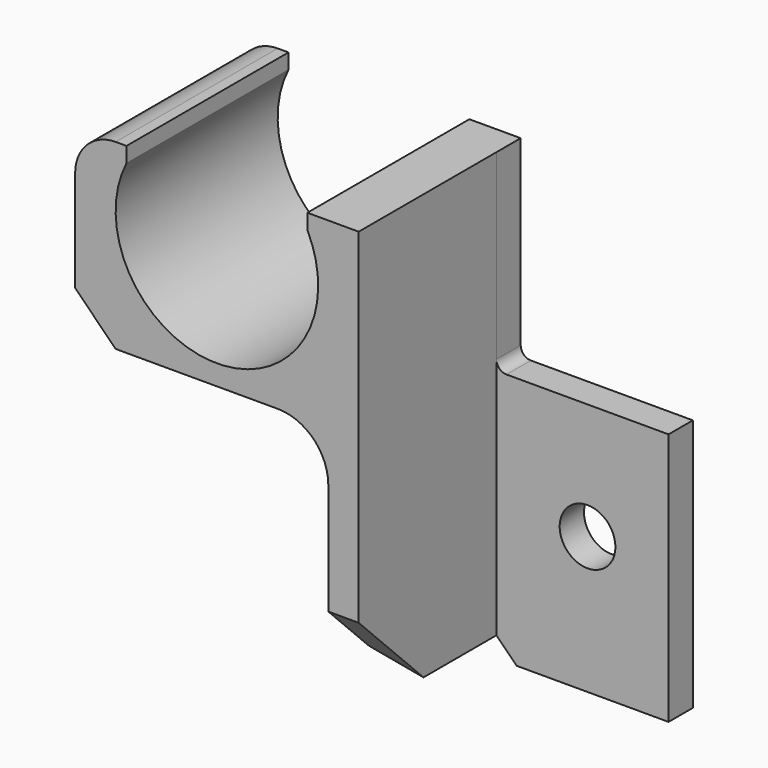
from build123d import *

# Parameters (mm, degrees)
F0_R     = 2.75
F1_DEPTH = 20
F2_SIZE  = 30
F3_R     = 1
F4_R     = 4
F5_SIZE  = 10
F6_W     = 24.290481
F6_H     = 31.840974
F6_W_2   = 17.983475
F6_H_2   = 49.393533
F7_DEPTH = 17
F8_R     = 5


with BuildPart() as f1:
    # F0 (on Front) → F1 (new body)
    with BuildSketch(Plane.XZ):
        with BuildLine():
            ThreePointArc((-5.069714, 17.5), (-14, 3), (-22.930286, 17.5))
            Line((-22.930286, 17.5), (-22.930286, 19))
            Line((-22.930286, 19), (-28, 19))
            Line((-28, 19), (-28, -25))
            Line((-28, -25), (17, -25))
            Line((17, -25), (17, 0))
            Line((17, 0), (0, 0))
            Line((0, 0), (0, 19))
            Line((0, 19), (-5.069714, 19))
            Line((-5.069714, 19), (-5.069714, 17.5))
        make_face()
        with Locations((9, -11.5)):
            Circle(F0_R, mode=Mode.SUBTRACT)
    extrude(amount=F1_DEPTH)

    # F2
    f2_edges = [f1.edges().sort_by_distance(p)[0] for p in [
        (-28, -10, -25),
    ]]
    chamfer(f2_edges, length=F2_SIZE)

    # F3
    f3_edges = [f1.edges().sort_by_distance(p)[0] for p in [
        (0, -10, 0),
    ]]
    fillet(f3_edges, radius=F3_R)

    # F4
    f4_edges = [f1.edges().sort_by_distance(p)[0] for p in [
        (-28, -10, 19),
    ]]
    fillet(f4_edges, radius=F4_R)

    # F5
    f5_edges = [f1.edges().sort_by_distance(p)[0] for p in [
        (9.5, -20, -25),
    ]]
    chamfer(f5_edges, length=F5_SIZE)

    # F6 (on face) → F7 (cut)
    with BuildSketch(Plane.XZ.offset(20)):
        with Locations((-15.14524, -14.920487)):
            Rectangle(F6_W, F6_H)
        with Locations((8.991737, -5.696766)):
            Rectangle(F6_W_2, F6_H_2)
    extrude(amount=-F7_DEPTH, mode=Mode.SUBTRACT)

    # F8
    f8_edges = [f1.edges().sort_by_distance(p)[0] for p in [
        (-3, -11.5, 1),
    ]]
    fillet(f8_edges, radius=F8_R)


solid = f1.part
